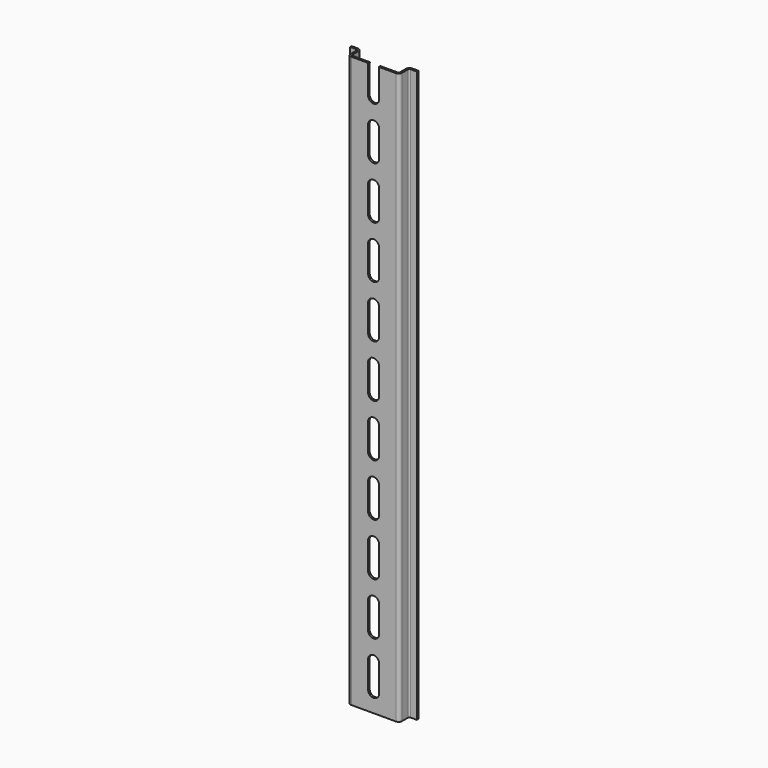
from build123d import *

# Parameters (mm, degrees)
PAD_DEPTH           = 150
POCKET_DEPTH        = 5
LINEARPATTERN_COUNT = 11
LINEARPATTERN_PITCH = 27.5


with BuildPart() as part:
    # Sketch → Pad (new body, symmetric)
    with BuildSketch(Plane.XY):
        with BuildLine():
            Line((-11.7, 0), (11.7, 0))
            ThreePointArc((11.7, 0), (12.972792, 0.527208), (13.5, 1.8))
            Line((13.5, 1.8), (13.5, 5.7))
            ThreePointArc((14.3, 6.5), (13.734315, 6.265685), (13.5, 5.7))
            Line((14.3, 6.5), (17.5, 6.5))
            Line((17.5, 6.5), (17.5, 7.5))
            Line((17.5, 7.5), (14.3, 7.5))
            ThreePointArc((14.3, 7.5), (13.027208, 6.972792), (12.5, 5.7))
            Line((12.5, 5.7), (12.5, 1.8))
            ThreePointArc((11.7, 1), (12.265685, 1.234315), (12.5, 1.8))
            Line((11.7, 1), (-11.7, 1))
            ThreePointArc((-12.5, 1.8), (-12.265685, 1.234315), (-11.7, 1))
            Line((-12.5, 1.8), (-12.5, 5.7))
            ThreePointArc((-12.5, 5.7), (-13.027208, 6.972792), (-14.3, 7.5))
            Line((-14.3, 7.5), (-17.5, 7.5))
            Line((-17.5, 7.5), (-17.5, 6.5))
            Line((-17.5, 6.5), (-14.3, 6.5))
            ThreePointArc((-13.5, 5.7), (-13.734315, 6.265685), (-14.3, 6.5))
            Line((-13.5, 5.7), (-13.5, 1.8))
            ThreePointArc((-13.5, 1.8), (-12.972792, 0.527208), (-11.7, 0))
        make_face()
    extrude(amount=PAD_DEPTH, both=True)

    # Sketch001 (on Face13 of Pad) → Pocket (cut)
    with BuildSketch(Plane(origin=(0, 1, 0), x_dir=(-1, 0, 0), z_dir=(0, 1, 0))):
        with BuildLine():
            ThreePointArc((-2.9, -140), (0, -142.9), (2.9, -140))
            Line((2.9, -140), (2.9, -126))
            ThreePointArc((2.9, -126), (0, -123.1), (-2.9, -126))
            Line((-2.9, -140), (-2.9, -126))
        make_face()
    pocket = extrude(amount=-POCKET_DEPTH, mode=Mode.SUBTRACT)

    # LinearPattern: Pocket ×11
    with Locations(*[(0, 0, i * LINEARPATTERN_PITCH) for i in range(1, LINEARPATTERN_COUNT)]):
        add(pocket, mode=Mode.SUBTRACT)


solid = part.part
